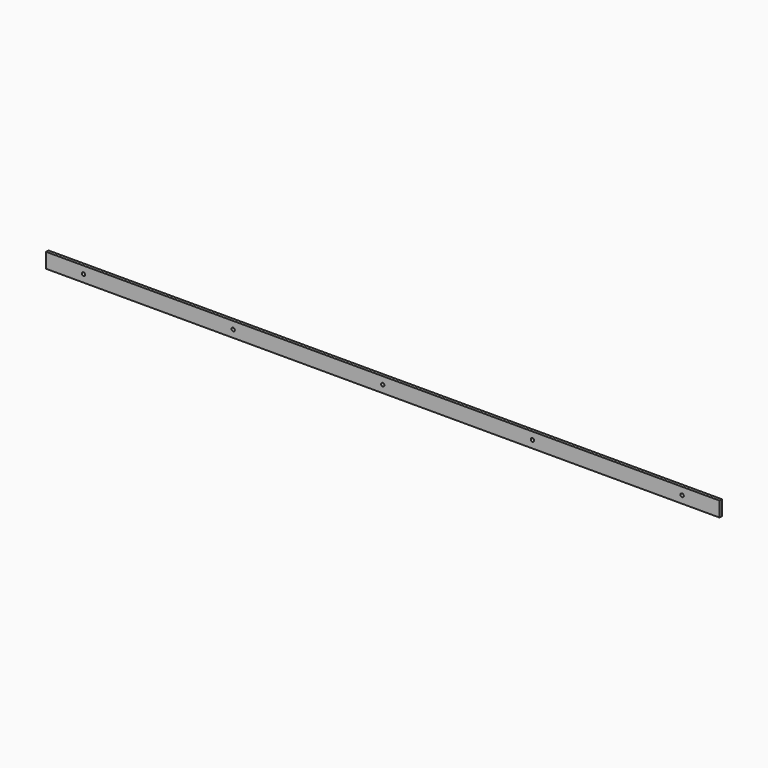
from build123d import *

# Parameters (mm, degrees)
F0_W     = 900
F0_H     = 20
F0_R     = 2.25
F1_DEPTH = 4


with BuildPart() as f1:
    # F0 (on Front) → F1 (new body)
    with BuildSketch(Plane.XZ):
        Rectangle(F0_W, F0_H)
        with Locations((-400, 0)):
            Circle(F0_R, mode=Mode.SUBTRACT)
        with Locations((-200, 0)):
            Circle(F0_R, mode=Mode.SUBTRACT)
        Circle(F0_R, mode=Mode.SUBTRACT)
        with Locations((200, 0)):
            Circle(F0_R, mode=Mode.SUBTRACT)
        with Locations((400, 0)):
            Circle(F0_R, mode=Mode.SUBTRACT)
    extrude(amount=F1_DEPTH)


solid = f1.part
